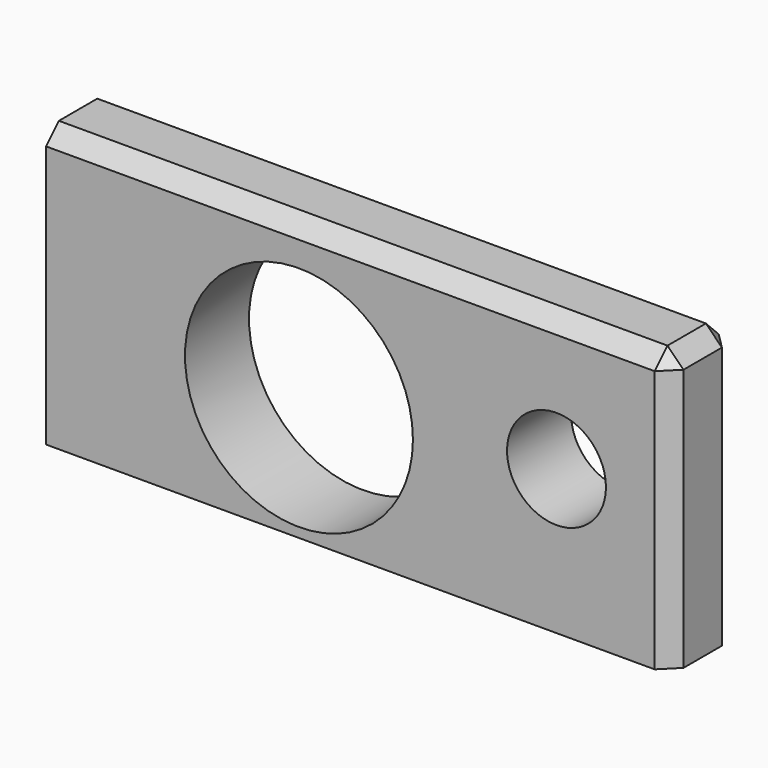
from build123d import *

# Parameters (mm, degrees)
F0_W     = 198.244132
F0_H     = 88.396173
F0_R     = 36.17246
F0_R_2   = 15.696126
F1_DEPTH = 25.4
F2_SIZE  = 5.08


with BuildPart() as f1:
    # F0 (on Front) → F1 (new body)
    with BuildSketch(Plane.XZ):
        with Locations((9.246465, -8.136881)):
            Rectangle(F0_W, F0_H)
        with Locations((-9.616316, -13.129972)):
            Circle(F0_R, mode=Mode.SUBTRACT)
        with Locations((72.122402, -6.47252)):
            Circle(F0_R_2, mode=Mode.SUBTRACT)
    extrude(amount=F1_DEPTH)

    # F2
    f2_edges = [f1.edges().sort_by_distance(p)[0] for p in [
        (108.368531, -12.7, 36.061205),
        (108.368531, -25.4, -8.136882),
        (9.246465, -25.4, 36.061205),
        (108.368531, 0, -8.136882),
        (9.246465, 0, 36.061205),
    ]]
    chamfer(f2_edges, length=F2_SIZE)


solid = f1.part
